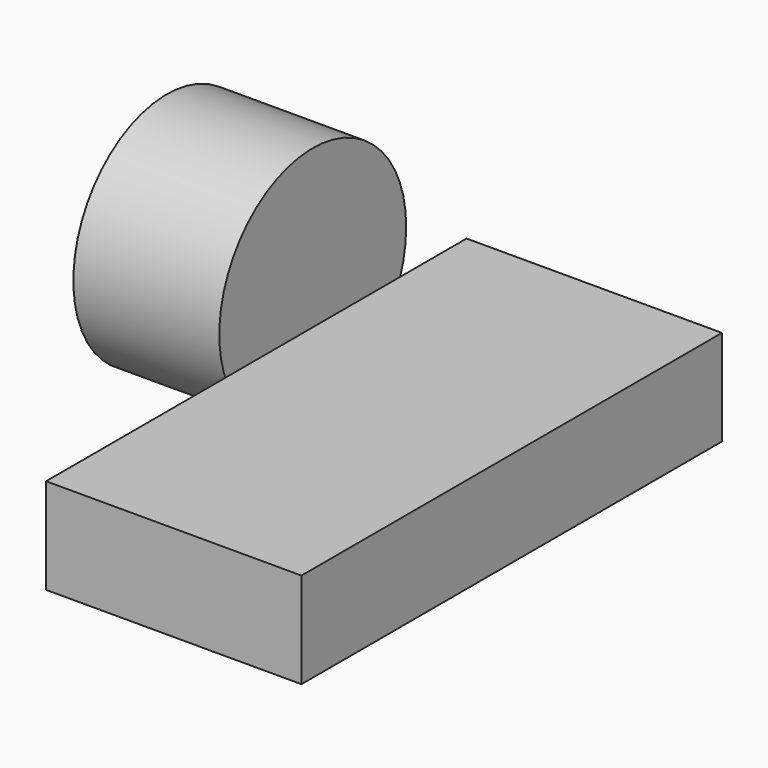
from build123d import *

# Parameters (mm, degrees)
F0_W      = 19.047439
F0_H      = 16.647756
F1_DEPTH  = 91.47881
F2_R      = 20.330527
F1_FACE_W = 91.47881
F1_FACE_H = 16.647756
F3_DEPTH  = 25.4


with BuildPart() as f1:
    # F0 (on Front) → F1 (new body)
    with BuildSketch(Plane.XZ):
        with Locations((55.567548, 34.870312)):
            Rectangle(F0_W, F0_H)
    extrude(amount=F1_DEPTH)

    # F2 (on Right) + F1_face (on face) → F3 (join)
    with BuildSketch(Plane.YZ):
        with Locations((-7.657632, 33.12394)):
            Circle(F2_R)
    with BuildSketch(Plane(origin=(65.091267, -45.739405, 34.870312), x_dir=(0, 1, 0), z_dir=(1, 0, 0))):
        Rectangle(F1_FACE_W, F1_FACE_H)
    extrude(amount=F3_DEPTH)


solid = f1.part
